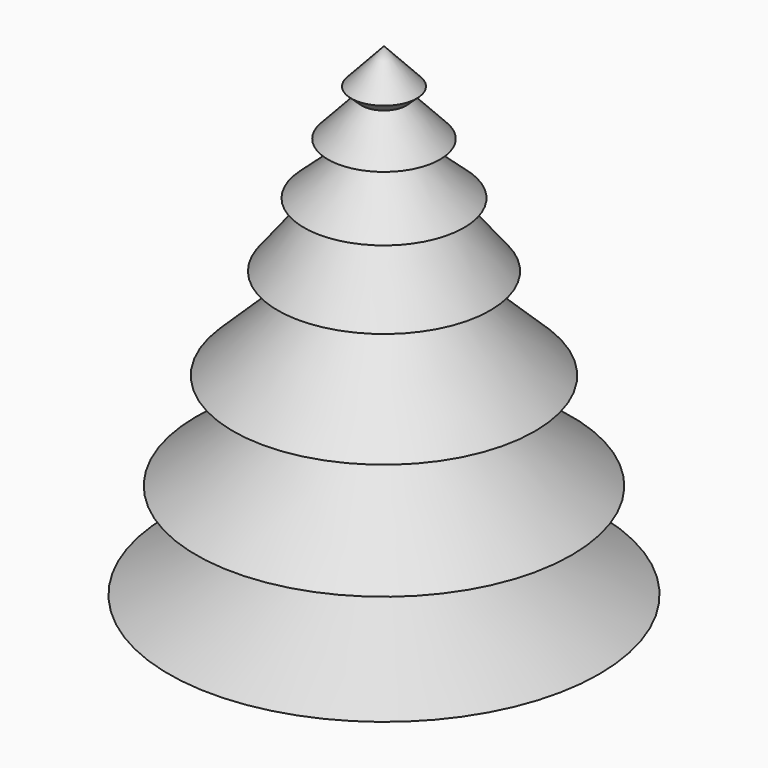
from build123d import *


with BuildPart() as f1:
    # F0 (on Front) → F1 (revolve)
    with BuildSketch(Plane.XZ):
        Polygon((6.211956, 52.428916), (0, 59.137829), (0, -38.762607), (4.225045, -38.762607), (4.225045, -32.302175), (40.75044, -32.302175), (10.615931, -16.896522), (17.393477, -16.896522), (10.615931, -14.16326), (35.532393, -14.16326), (10.615931, 4.22413), (28.574999, 4.22413), (10.615931, 21.617608), (20.126738, 21.617608), (10.615931, 33.793043), (15.157172, 33.793043), (4.225045, 43.687027), (10.615931, 43.687027), (4.225045, 50.589184), align=None)
    revolve(axis=Axis((0, 0, 10.187611), (0, 0, -1)))


solid = f1.part
